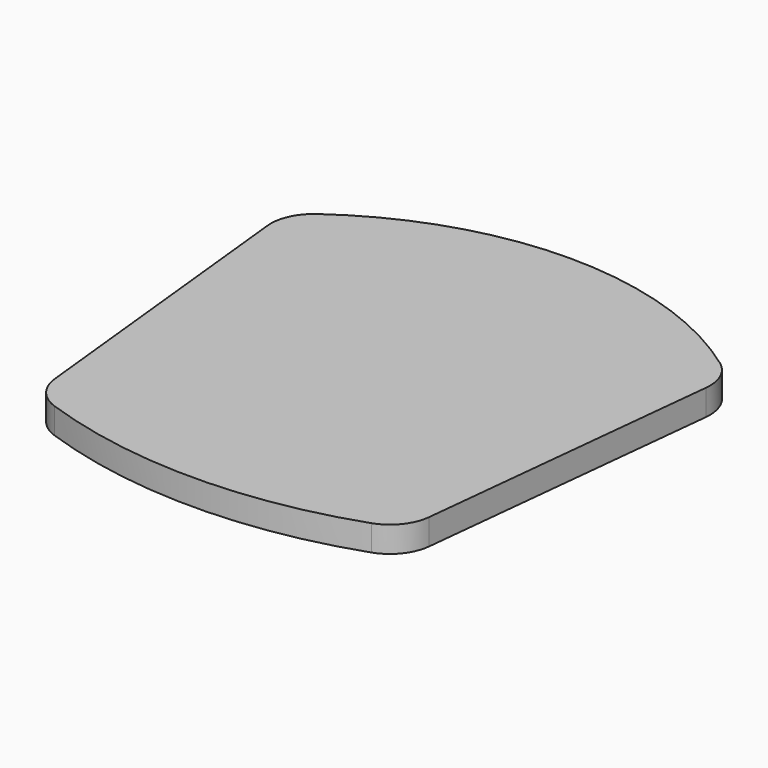
from build123d import *

# Parameters (mm, degrees)
F1_DEPTH = 3


with BuildPart() as f1:
    # F0 (on Top) → F1 (new body)
    with BuildSketch(Plane.XY):
        with BuildLine():
            Line((-25.472609, 38.588299), (-21.737864, 3.054571))
            ThreePointArc((-21.737864, 3.054571), (-20.683498, 0.471192), (-18.408907, -1.144906))
            ThreePointArc((-18.408907, -1.144906), (0, -4.257174), (18.408907, -1.144906))
            ThreePointArc((18.408907, -1.144906), (20.683498, 0.471192), (21.737864, 3.054571))
            Line((21.737864, 3.054571), (25.472609, 38.588299))
            ThreePointArc((25.472609, 38.588299), (25.065123, 41.150464), (23.428571, 43.163529))
            ThreePointArc((23.428571, 43.163529), (0, 50.742826), (-23.428571, 43.163529))
            ThreePointArc((-23.428571, 43.163529), (-25.065123, 41.150464), (-25.472609, 38.588299))
        make_face()
    extrude(amount=F1_DEPTH)


solid = f1.part
